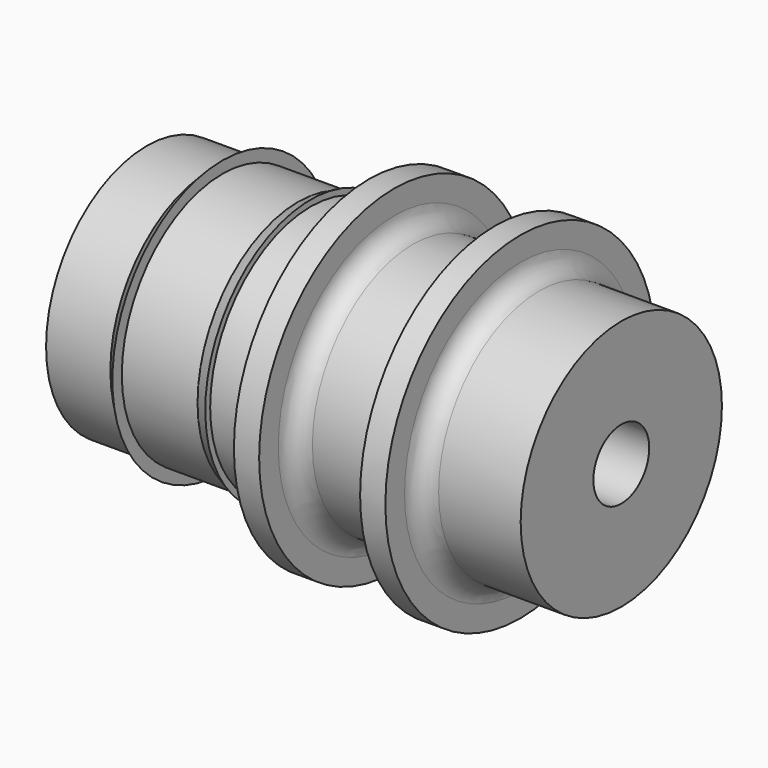
from build123d import *


with BuildPart() as f1:
    # F0 (on Front) → F1 (revolve)
    with BuildSketch(Plane.XZ):
        with BuildLine():
            Line((3.371987, -5.528646), (3.371987, -3.628646))
            ThreePointArc((3.371987, -3.628646), (3.811326, -2.567986), (4.871987, -2.128646))
            Line((4.871987, -2.128646), (11.371987, -2.128646))
            Line((11.371987, -2.128646), (11.371987, 5.071354))
            Line((11.371987, 5.071354), (4.871987, 5.071354))
            ThreePointArc((4.871987, 5.071354), (3.811326, 5.510693), (3.371987, 6.571354))
            Line((3.371987, 6.571354), (3.371987, 7.836804))
            Line((3.371987, 7.836804), (1.371987, 7.836804))
            Line((1.371987, 7.836804), (1.371987, 6.571354))
            ThreePointArc((1.371987, 6.571354), (0.932647, 5.510693), (-0.128013, 5.071354))
            Line((-0.128013, 5.071354), (-5.230721, 5.071354))
            ThreePointArc((-5.230721, 5.071354), (-6.291381, 5.510693), (-6.730721, 6.571354))
            Line((-6.730721, 6.571354), (-6.730721, 7.836804))
            Line((-6.730721, 7.836804), (-8.730721, 7.836804))
            Line((-8.730721, 7.836804), (-8.730721, 6.571354))
            ThreePointArc((-8.730721, 6.571354), (-9.170061, 5.510693), (-10.230721, 5.071354))
            Line((-10.230721, 5.071354), (-13.228013, 5.071354))
            Line((-13.228013, 5.071354), (-14.228013, 5.071354))
            Line((-14.228013, 5.071354), (-20.228013, 5.071354))
            Line((-20.228013, 5.071354), (-21.210421, 5.071354))
            Line((-21.210421, 5.071354), (-26.228013, 5.071354))
            Line((-26.228013, 5.071354), (-26.228013, -2.128646))
            Line((-26.228013, -2.128646), (-21.136245, -2.128646))
            Line((-21.136245, -2.128646), (-20.228013, -2.128646))
            Line((-20.228013, -2.128646), (-14.228013, -2.128646))
            Line((-14.228013, -2.128646), (-13.228013, -2.128646))
            Line((-13.228013, -2.128646), (-10.128013, -2.128646))
            ThreePointArc((-10.128013, -2.128646), (-9.067353, -2.567986), (-8.628013, -3.628646))
            Line((-8.628013, -3.628646), (-8.628013, -5.528646))
            Line((-8.628013, -5.528646), (-6.628013, -5.528646))
            Line((-6.628013, -5.528646), (-6.628013, -3.628646))
            ThreePointArc((-6.628013, -3.628646), (-6.188674, -2.567986), (-5.128013, -2.128646))
            Line((-5.128013, -2.128646), (-0.128013, -2.128646))
            ThreePointArc((-0.128013, -2.128646), (0.932647, -2.567986), (1.371987, -3.628646))
            Line((1.371987, -3.628646), (1.371987, -5.528646))
            Line((1.371987, -5.528646), (3.371987, -5.528646))
        make_face()
        Polygon((-13.228013, -2.613891), (-13.228013, -2.128646), (-14.228013, -2.128646), align=None)
        Polygon((-20.228013, -3.06464), (-20.228013, -2.128646), (-21.136245, -2.128646), align=None)
        Polygon((-14.228013, 5.071354), (-13.228013, 5.071354), (-13.228013, 6.070742), align=None)
        Polygon((-20.228013, 6.017667), (-21.210421, 5.071354), (-20.228013, 5.071354), align=None)
    revolve(axis=Axis((2.371987, 0, 7.836804), (1, 0, 0)))


solid = f1.part
